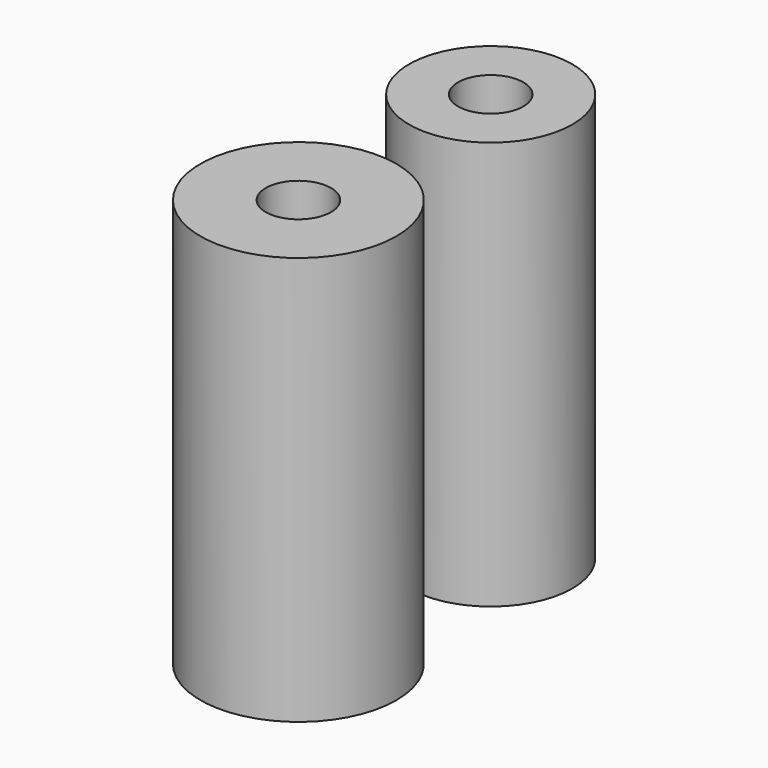
from build123d import *

# Parameters (mm, degrees)
F0_R     = 5
F0_R_2   = 2
F0_R_3   = 6
F1_DEPTH = 25


with BuildPart() as f1:
    # F0 (on Top) → F1 (new body)
    with BuildSketch(Plane.XY):
        with Locations((-39.60729, 18.802715)):
            Circle(F0_R)
        with Locations((-39.60729, 18.802715)):
            Circle(F0_R_2, mode=Mode.SUBTRACT)
        with Locations((-39.949834, 4.518734)):
            Circle(F0_R_3)
        with Locations((-39.949834, 4.518734)):
            Circle(F0_R_2, mode=Mode.SUBTRACT)
    extrude(amount=F1_DEPTH)


solid = f1.part
